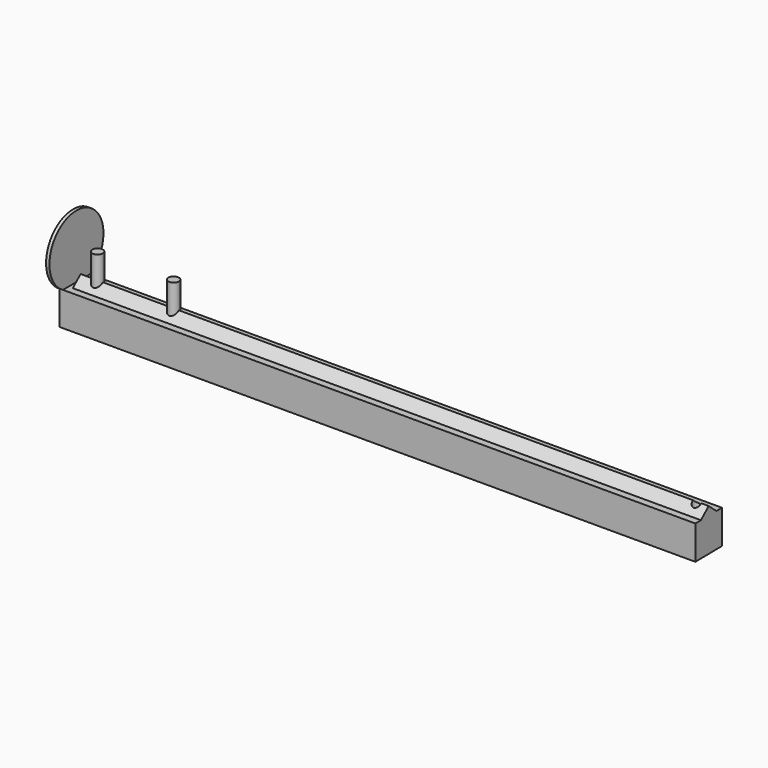
from build123d import *

# Parameters (mm, degrees)
F0_W          = 508
F0_H          = 25.4
F1_DEPTH      = 25.4
F3_DEPTH      = 508.001
F4_R          = 3.96875
F4_R_2        = 3.9751
F5_DEPTH      = 50.8
F6_R          = 3.175
F7_DEPTH      = 84.328
F7_DEPTH_BACK = 61.468
F9_DEPTH      = 25.4
F10_DEPTH     = 148.59
F11_W         = 25.4
F11_H         = 25.4
F12_DEPTH     = 3.175
F13_W         = 25.4
F13_H         = 25.4
F14_DEPTH     = 2.54


with BuildPart() as f1:
    # F0 (on Top) → F1 (new body)
    with BuildSketch(Plane.XY):
        with Locations((224.1236992961, 2.1686004475)):
            Rectangle(F0_W, F0_H)
    extrude(amount=F1_DEPTH)

    # F2 (on face) → F3 (join, through all)
    with BuildSketch(Plane(origin=(-29.8763007039, 0, 0), x_dir=(0, -1, 0), z_dir=(-1, 0, 0))):
        Polygon((-2.1686004475, 25.4), (-2.1686004475, 31.75), (-9.5885356279, 25.4), align=None)
        Polygon((5.251334733, 25.4), (-2.1686004475, 31.75), (-2.1686004475, 25.4), align=None)
    extrude(amount=-F3_DEPTH)

    # F4 (on Top) → F5 (join)
    with BuildSketch(Plane.XY):
        with Locations((-17.1763007039, 2.2061855998)):
            Circle(F4_R)
        with Locations((39.9736992961, 2.2061855998)):
            Circle(F4_R_2)
    extrude(amount=F5_DEPTH)

    # F6 (on Top) → F7 (cut, two sides)
    with BuildSketch(Plane.XY) as f7_sk:
        with Locations((433.6736992961, 2.1686004475)):
            Circle(F6_R)
    extrude(amount=F7_DEPTH, mode=Mode.SUBTRACT)
    extrude(f7_sk.sketch, amount=-F7_DEPTH_BACK, mode=Mode.SUBTRACT)


with BuildPart() as f9:
    # F8 (on Top) → F9 (new body)
    with BuildSketch(Plane.XY):
        Polygon((487.5240470482, 27.3656504085), (442.0609761506, 27.3656504085), (442.7554455138, -23.4296024435), (487.5240470482, -22.8175290615), align=None)
    extrude(amount=F9_DEPTH)


with BuildPart() as f10_tool:
    # F8 (on Top) → F10 (new body)
    with BuildSketch(Plane.XY):
        Polygon((487.5240470482, 27.3656504085), (442.0609761506, 27.3656504085), (442.7554455138, -23.4296024435), (487.5240470482, -22.8175290615), align=None)
    extrude(amount=F10_DEPTH)


with BuildPart() as f1_1:
    add(f1.part)

    # F10: cut by f10_tool
    add(f10_tool.part, mode=Mode.SUBTRACT)

    # F11 (on face) → F12 (join)
    with BuildSketch(Plane(origin=(-29.8763007039, 0, 0), x_dir=(0, -1, 0), z_dir=(-1, 0, 0))):
        with Locations((-2.1686004475, 12.7)):
            Rectangle(F11_W, F11_H)
    extrude(amount=F12_DEPTH)

    # F13 (on face) → F14 (join)
    with BuildSketch(Plane(origin=(-33.0513007039, 0, 0), x_dir=(0, -1, 0), z_dir=(-1, 0, 0))):
        with BuildLine():
            ThreePointArc((10.5313995525, 25.4), (-2.1686004475, 72.7970452561), (-14.8686004475, 25.4))
            Line((-14.8686004475, 25.4), (10.5313995525, 25.4))
        make_face()
        with Locations((-2.1686004475, 12.7)):
            Rectangle(F13_W, F13_H)
    extrude(amount=F14_DEPTH)


with BuildPart() as f9_1:
    add(f9.part)

    # F10: cut by f10_tool
    add(f10_tool.part, mode=Mode.SUBTRACT)


solid = f1_1.part
